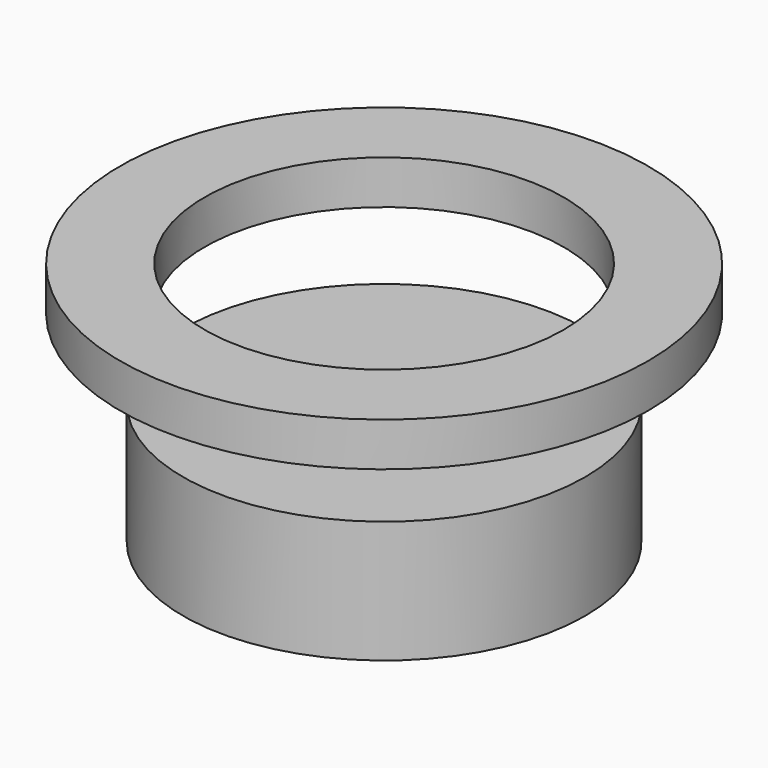
from build123d import *

# Parameters (mm, degrees)
F0_W   = 45.501184
F0_H   = 27.661115
F0_W_2 = 19.101485
F0_H_2 = 9.911149


with BuildPart() as f1:
    # F0 (on Front) → F1 (revolve)
    with BuildSketch(Plane.XZ):
        with Locations((22.750592, 13.830557)):
            Rectangle(F0_W, F0_H)
        with Locations((50.186451, 50.456758)):
            Rectangle(F0_W_2, F0_H_2)
    revolve(axis=Axis((0, 0, 39.959952), (0, 0, 1)))


solid = f1.part
